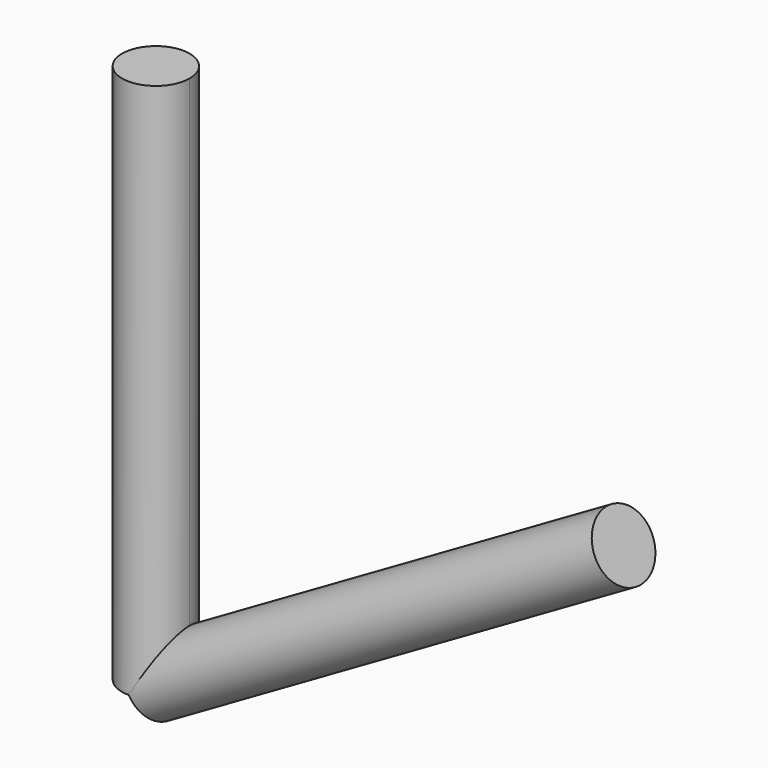
from build123d import *

# Parameters (mm, degrees)
F3_ANGLE = 60


with BuildPart() as f2:
    # F2: sweep along a path in F0
    with BuildLine(Plane.XZ) as f2_path:
        Line((0, 0), (0, 25.4))
    # F1 (on Top) → F2 (sweep)
    with BuildSketch(Plane.XY):
        with BuildLine():
            ThreePointArc((0, 1.5875), (-1.122532, -1.122532), (1.5875, 0))
            ThreePointArc((1.5875, 0), (1.122532, 1.122532), (0, 1.5875))
        make_face()
    sweep(path=f2_path.line)


with BuildPart() as f3_1:
    # F3: copy of F2
    add(f2.part.rotate(Axis((0, 6.35, 0), (0, 1, 0)), F3_ANGLE))


solid = Compound([f2.part, f3_1.part])
